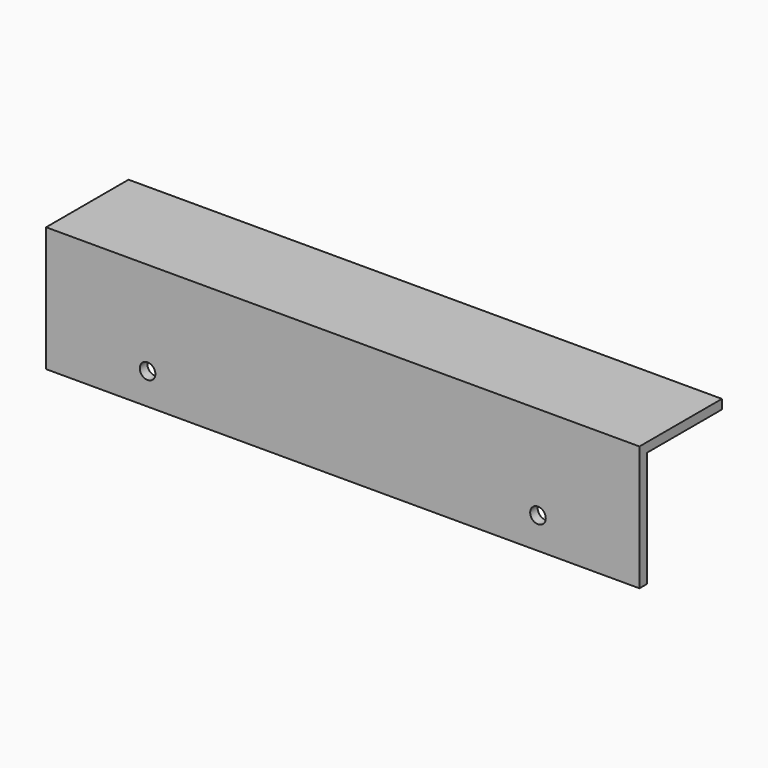
from build123d import *

# Parameters (mm, degrees)
F0_W     = 190
F0_H     = 40
F0_R     = 2.5
F1_DEPTH = 3
F2_W     = 30
F2_H     = 3
F3_DEPTH = 190


with BuildPart() as f1:
    # F0 (on Front) → F1 (new body)
    with BuildSketch(Plane.XZ):
        with Locations((-27.060809, 21.819512)):
            Rectangle(F0_W, F0_H)
        with Locations((-89.560809, 11.819512)):
            Circle(F0_R, mode=Mode.SUBTRACT)
        with Locations((35.439191, 11.819512)):
            Circle(F0_R, mode=Mode.SUBTRACT)
    extrude(amount=F1_DEPTH)

    # F2 (on face) → F3 (join, through all)
    with BuildSketch(Plane.YZ.offset(67.939191)):
        with Locations((15, 40.319512)):
            Rectangle(F2_W, F2_H)
    extrude(amount=-F3_DEPTH)


solid = f1.part
